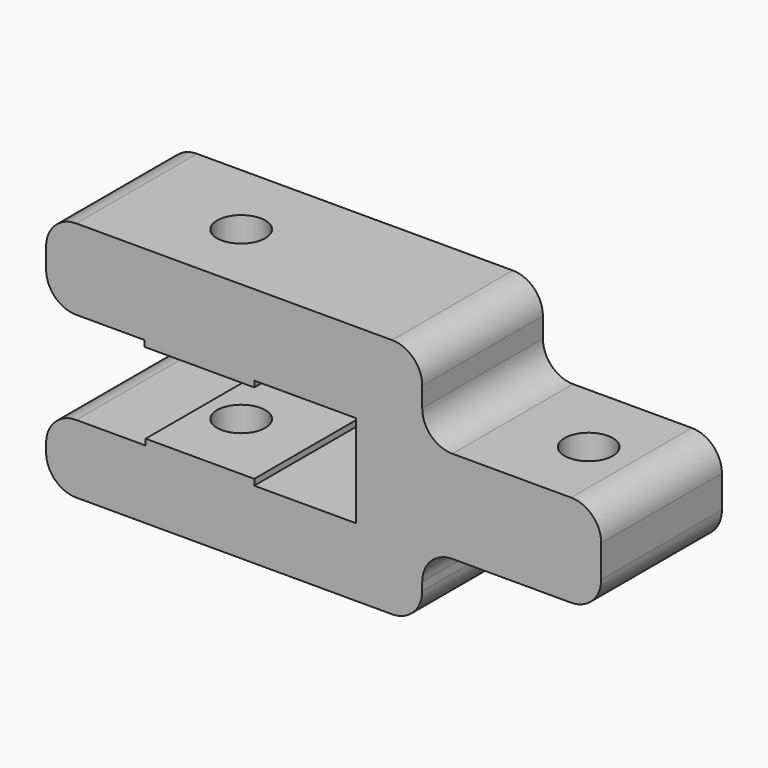
from build123d import *

# Parameters (mm, degrees)
F0_W     = 18.1666671749
F0_H     = 1
F0_W_2   = 29.6666571914
F0_H_2   = 15.3333324809
F0_W_3   = 18.0000001967
F1_DEPTH = 25
F2_R     = 5
F3_R     = 5
F4_R     = 5
F5_R     = 5
F6_R     = 5
F7_R     = 5
F8_R     = 5
F9_R     = 5
F10_R    = 5
F11_R    = 5
F13_D    = 8
F15_D    = 8


with BuildPart() as f1:
    # F0 (on Front) → F1 (new body)
    with BuildSketch(Plane.XZ):
        with Locations((25.416871541, 26.1666653552)):
            Rectangle(F0_W, F0_H)
        Polygon((34.5002051284, 26.6666653552), (51.3333348415, 26.6666653552), (51.3333348415, 40), (0, 40), (0, 26.6666653552), (16.3335379536, 26.6666653552), align=None)
        Polygon((51.3333348415, 11.3333328743), (51.3333348415, 0), (62.3333337596, 0), (62.3333337596, 11.3333328743), (62.3333337596, 26.6666653552), (62.3333337596, 40), (51.3333348415, 40), (51.3333348415, 26.6666653552), align=None)
        with Locations((77.1666623552, 18.9999991148)):
            Rectangle(F0_W_2, F0_H_2)
        Polygon((0, 11.3333328743), (0, 0), (51.3333348415, 0), (51.3333348415, 11.3333328743), (34.5002051284, 11.3333328743), (16.5002049317, 11.3333328743), align=None)
        with Locations((25.5002050301, 11.8333328743)):
            Rectangle(F0_W_3, F0_H)
    extrude(amount=F1_DEPTH)

    # F2
    f2_edges = [f1.edges().sort_by_distance(p)[0] for p in [
        (62.333334, -12.5, 40),
    ]]
    fillet(f2_edges, radius=F2_R)

    # F3
    f3_edges = [f1.edges().sort_by_distance(p)[0] for p in [
        (62.333334, -12.5, 26.666665),
    ]]
    fillet(f3_edges, radius=F3_R)

    # F4
    f4_edges = [f1.edges().sort_by_distance(p)[0] for p in [
        (91.999991, -12.5, 26.666665),
    ]]
    fillet(f4_edges, radius=F4_R)

    # F5
    f5_edges = [f1.edges().sort_by_distance(p)[0] for p in [
        (0, -12.5, 40),
    ]]
    fillet(f5_edges, radius=F5_R)

    # F6
    f6_edges = [f1.edges().sort_by_distance(p)[0] for p in [
        (0, -12.5, 26.666665),
    ]]
    fillet(f6_edges, radius=F6_R)

    # F7
    f7_edges = [f1.edges().sort_by_distance(p)[0] for p in [
        (0, -12.5, 11.333333),
    ]]
    fillet(f7_edges, radius=F7_R)

    # F8
    f8_edges = [f1.edges().sort_by_distance(p)[0] for p in [
        (0, -12.5, 0),
    ]]
    fillet(f8_edges, radius=F8_R)

    # F9
    f9_edges = [f1.edges().sort_by_distance(p)[0] for p in [
        (62.333334, -12.5, 0),
    ]]
    fillet(f9_edges, radius=F9_R)

    # F10
    f10_edges = [f1.edges().sort_by_distance(p)[0] for p in [
        (62.333334, -12.5, 11.333333),
    ]]
    fillet(f10_edges, radius=F10_R)

    # F11
    f11_edges = [f1.edges().sort_by_distance(p)[0] for p in [
        (91.999991, -12.5, 11.333333),
    ]]
    fillet(f11_edges, radius=F11_R)

    # F13 (through all)
    with Locations(Plane.XY.offset(40)):
        with Locations((22.7013193071, -12.9694240168)):
            Hole(F13_D / 2)

    # F15 (through all)
    with Locations(Plane(origin=(0, 0, 11.3333328743), x_dir=(1, 0, 0), z_dir=(0, 0, -1))):
        with Locations((79.9189954996, 12.5)):
            Hole(F15_D / 2)


solid = f1.part
